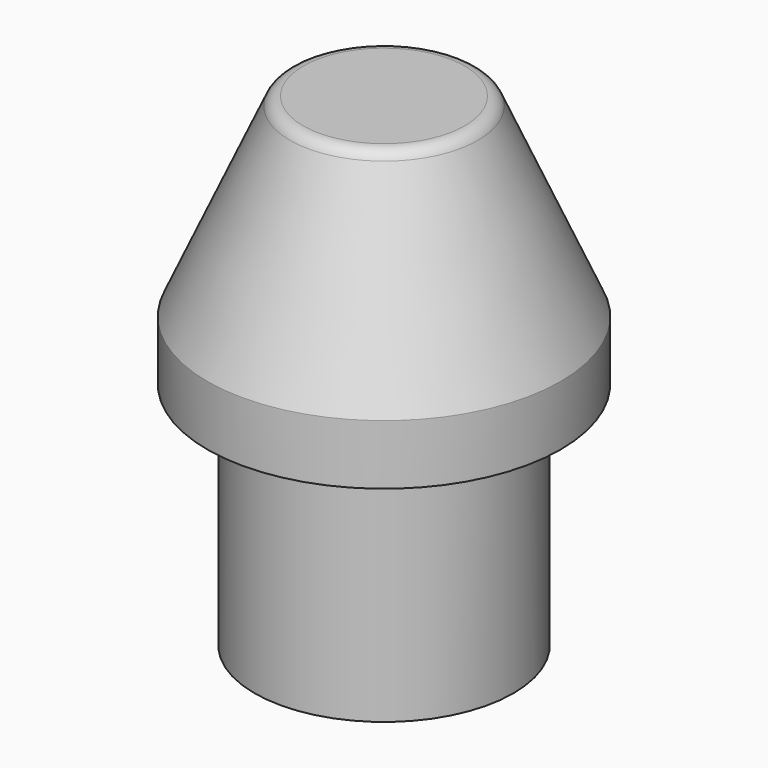
from build123d import *


with BuildPart() as f1:
    # F0 (on Front) → F1 (revolve)
    with BuildSketch(Plane.XZ):
        with BuildLine():
            Line((-26.951872, -47.867652), (-14.87968, -47.867652))
            Line((-14.87968, -47.867652), (-14.87968, -11.089573))
            Line((-14.87968, -11.089573), (0, -11.089573))
            Line((0, -11.089573), (0, 5.749613))
            add(Edge.make_bspline(
                [(0, 47.311883), (-11.906475, 47.311883), (-11.906475, 26.530748), (-11.906475, 5.749613), (0, 5.749613)],
                knots=[3.141593, 3.141593, 3.141593, 4.712389, 4.712389, 6.283185, 6.283185, 6.283185], degree=2, weights=[1, 0.707107, 1, 0.707107, 1]))
            Line((0, 47.311883), (0, 52.858687))
            Line((0, 52.858687), (-16.830357, 52.858687))
            ThreePointArc((-16.830357, 52.858687), (-18.463521, 52.375187), (-19.570262, 51.080536))
            Line((-19.570262, 51.080536), (-36.778077, 12.493316))
            Line((-36.778077, 12.493316), (-36.778077, 0))
            Line((-36.778077, 0), (-26.951872, 0))
            Line((-26.951872, 0), (-26.951872, -47.867652))
        make_face()
    revolve(axis=Axis((0, 0, 20.884557), (0, 0, -1)))


solid = f1.part
